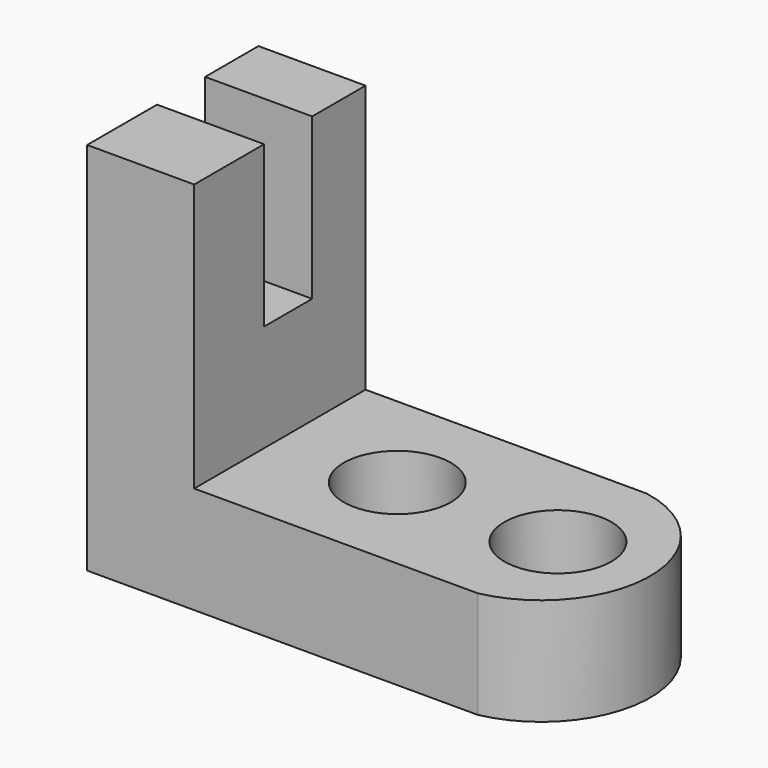
from build123d import *

# Parameters (mm, degrees)
F1_DEPTH = 25.4
F3_R     = 6.35
F4_DEPTH = 25.4
F6_DEPTH = 25.4
F7_W     = 12.7
F7_H     = 7.132675
F8_DEPTH = 19.05


with BuildPart() as f1:
    # F0 (on Front) → F1 (new body)
    with BuildSketch(Plane.XZ):
        Polygon((0, 44.45), (0, 0), (57.15, 0), (57.15, 12.7), (12.7, 12.7), (12.7, 44.45), align=None)
    extrude(amount=F1_DEPTH)

    # F3 (on face) → F4 (cut)
    with BuildSketch(Plane.XY.offset(12.7)):
        with Locations((26.631284, -12.7)):
            Circle(F3_R)
        with Locations((45.681284, -12.7)):
            Circle(F3_R)
    extrude(amount=-F4_DEPTH, mode=Mode.SUBTRACT)

    # F5 (on face) → F6 (cut)
    with BuildSketch(Plane.XY.offset(12.7)):
        with BuildLine():
            ThreePointArc((46.05227, 0), (56.65458, -12.572447), (46.362385, -25.4))
            Line((46.362385, -25.4), (57.15, -25.4))
            Line((57.15, -25.4), (57.15, 0))
            Line((57.15, 0), (46.05227, 0))
        make_face()
    extrude(amount=-F6_DEPTH, mode=Mode.SUBTRACT)

    # F7 (on face) → F8 (cut)
    with BuildSketch(Plane.XY.offset(44.45)):
        with Locations((6.35, -11.474303)):
            Rectangle(F7_W, F7_H)
    extrude(amount=-F8_DEPTH, mode=Mode.SUBTRACT)


solid = f1.part
